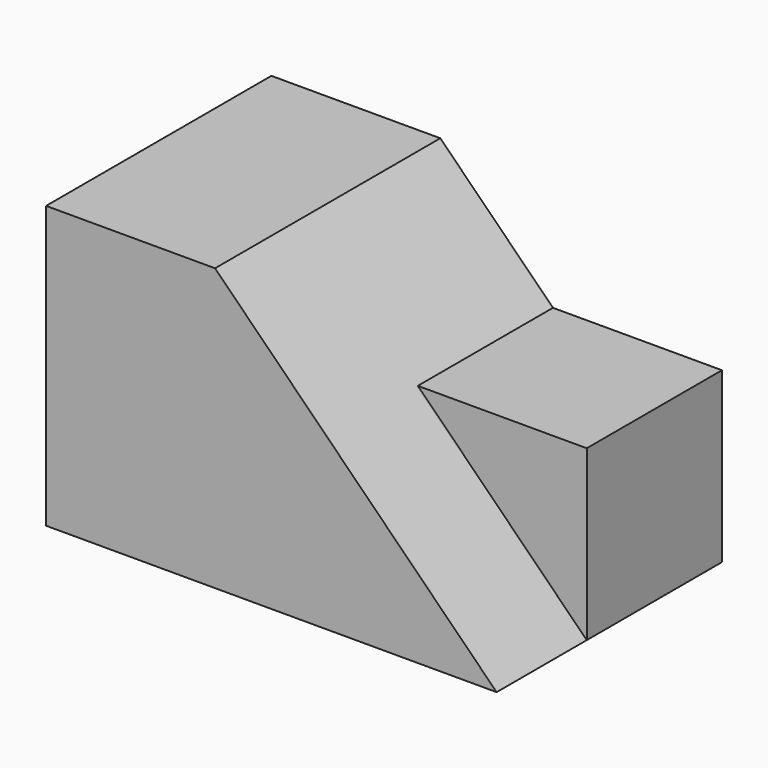
from build123d import *

# Parameters (mm, degrees)
F1_DEPTH = 127
F2_DEPTH = 76.2


with BuildPart() as f1:
    # F0 (on Front) → F1 (new body)
    with BuildSketch(Plane.XZ):
        Polygon((0, 127), (0, 0), (203.2, 0), (127, 76.2), (76.2, 127), align=None)
    extrude(amount=F1_DEPTH)

    # F0 (on Front) → F2 (join)
    with BuildSketch(Plane.XZ):
        Polygon((127, 76.2), (203.2, 0), (203.2, 76.2), align=None)
    extrude(amount=F2_DEPTH)


solid = f1.part
